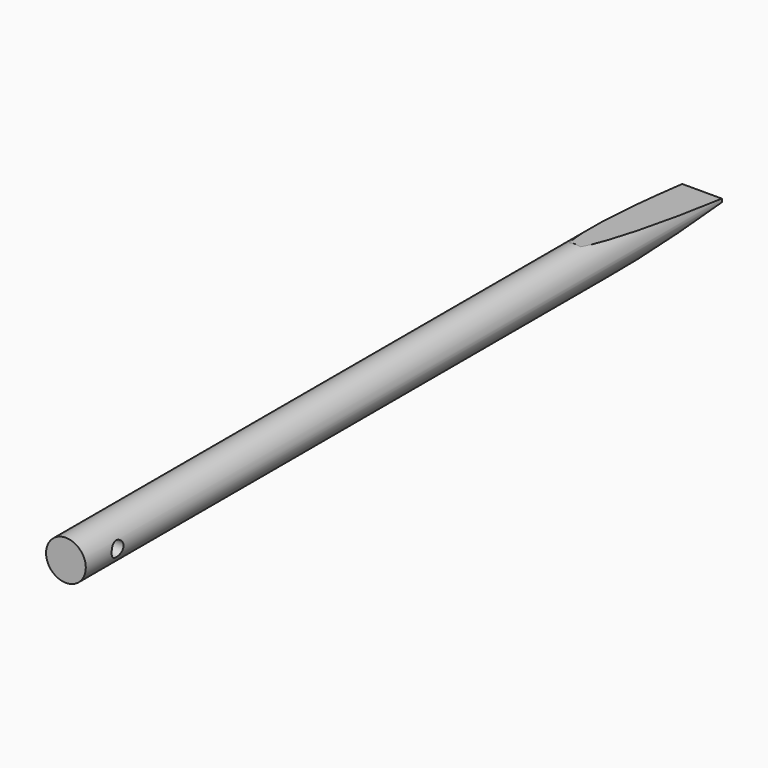
from build123d import *

# Parameters (mm, degrees)
F0_R     = 3.175
F1_DEPTH = 127
F2_R     = 1.1938
F3_DEPTH = 12.7


with BuildPart() as f1:
    # F0 (on Front) → F1 (new body)
    with BuildSketch(Plane.XZ):
        Circle(F0_R)
    extrude(amount=F1_DEPTH)

    # F2 (on Right) → F3 (cut, symmetric)
    with BuildSketch(Plane.YZ):
        with Locations((-120.65, 0)):
            Circle(F2_R)
        Polygon((0, -7.645146), (0, -3.056197), (0, -0.262197), (-25.4, -3.056197), (-25.4, -7.645146), align=None)
        Polygon((0, 0.262197), (0, 3.056197), (0, 7.996544), (-25.4, 7.996544), (-25.4, 3.056197), align=None)
    extrude(amount=F3_DEPTH, both=True, mode=Mode.SUBTRACT)


solid = f1.part
